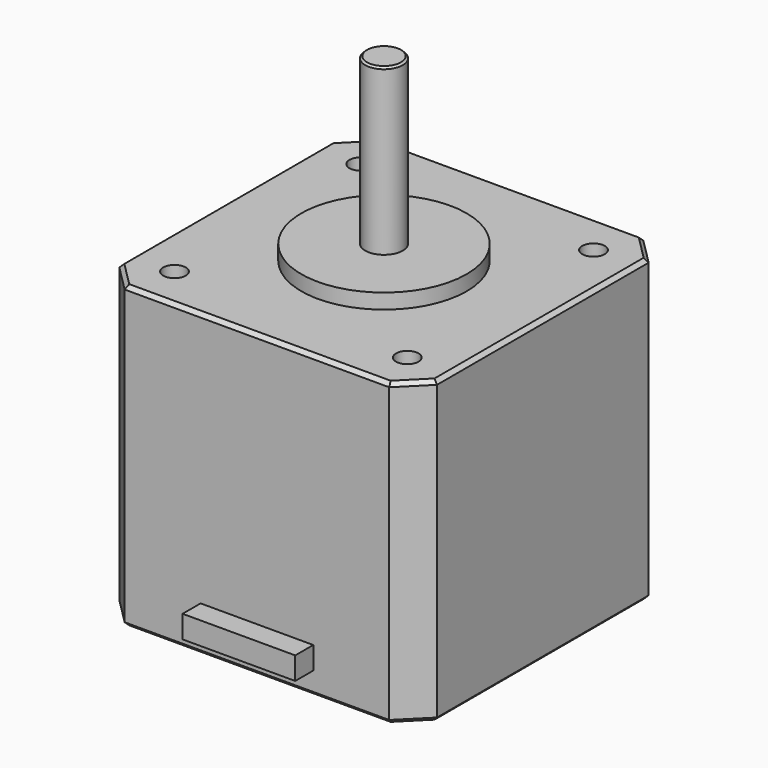
from build123d import *

# Parameters (mm, degrees)
PAD_DEPTH       = 40
SKETCH002_R     = 2.5
PAD001_DEPTH    = 24
SKETCH001_R     = 11
PAD002_DEPTH    = 2
SKETCH003_R     = 1.5
POCKET_DEPTH    = 5
CHAMFER_SIZE    = 0.5
CHAMFER001_SIZE = 0.25
SKETCH004_W     = 15
SKETCH004_H     = 3
PAD003_DEPTH    = 3


with BuildPart() as part:
    # Sketch → Pad (new body)
    with BuildSketch(Plane.XY):
        Polygon((-17.614466, 21.15), (17.614466, 21.15), (21.15, 17.614466), (21.15, -17.614466), (17.614466, -21.15), (-17.614466, -21.15), (-21.15, -17.614466), (-21.15, 17.614466), align=None)
    extrude(amount=PAD_DEPTH)

    # Sketch002 (on Face10 of Pad) → Pad001 (join)
    with BuildSketch(Plane.XY.offset(40)):
        Circle(SKETCH002_R)
    extrude(amount=PAD001_DEPTH)

    # Sketch001 (on Face10 of Pad) → Pad002 (join)
    with BuildSketch(Plane.XY.offset(40)):
        Circle(SKETCH001_R)
    extrude(amount=PAD002_DEPTH)

    # Sketch003 (on Face5 of Pad002) → Pocket (cut)
    with BuildSketch(Plane.XY.offset(40)):
        with Locations((-15.5, 15.5)):
            Circle(SKETCH003_R)
        with Locations((15.5, 15.5)):
            Circle(SKETCH003_R)
        with Locations((-15.5, -15.5)):
            Circle(SKETCH003_R)
        with Locations((15.5, -15.5)):
            Circle(SKETCH003_R)
    extrude(amount=-POCKET_DEPTH, mode=Mode.SUBTRACT)

    # Chamfer
    chamfer_edges = [part.edges().sort_by_distance(p)[0] for p in [
        (-19.382233, 19.382233, 0),
        (0, 21.15, 0),
        (19.382233, 19.382233, 0),
        (21.15, 0, 0),
        (19.382233, -19.382233, 0),
        (0, -21.15, 0),
        (-19.382233, -19.382233, 0),
        (-21.15, 0, 0),
        (0, -21.15, 40),
        (21.15, 0, 40),
        (19.382233, -19.382233, 40),
        (19.382233, 19.382233, 40),
        (0, 21.15, 40),
        (-19.382233, -19.382233, 40),
        (-21.15, 0, 40),
        (-19.382233, 19.382233, 40),
    ]]
    chamfer(chamfer_edges, length=CHAMFER_SIZE)

    # Chamfer001
    chamfer001_edges = [part.edges().sort_by_distance(p)[0] for p in [
        (-2.5, 0, 64),
    ]]
    chamfer(chamfer001_edges, length=CHAMFER001_SIZE)

    # Sketch004 (on Face19 of Chamfer001) → Pad003 (join)
    with BuildSketch(Plane.XZ.offset(21.15)):
        with Locations((0, 4.5)):
            Rectangle(SKETCH004_W, SKETCH004_H)
    extrude(amount=PAD003_DEPTH)


solid = part.part
